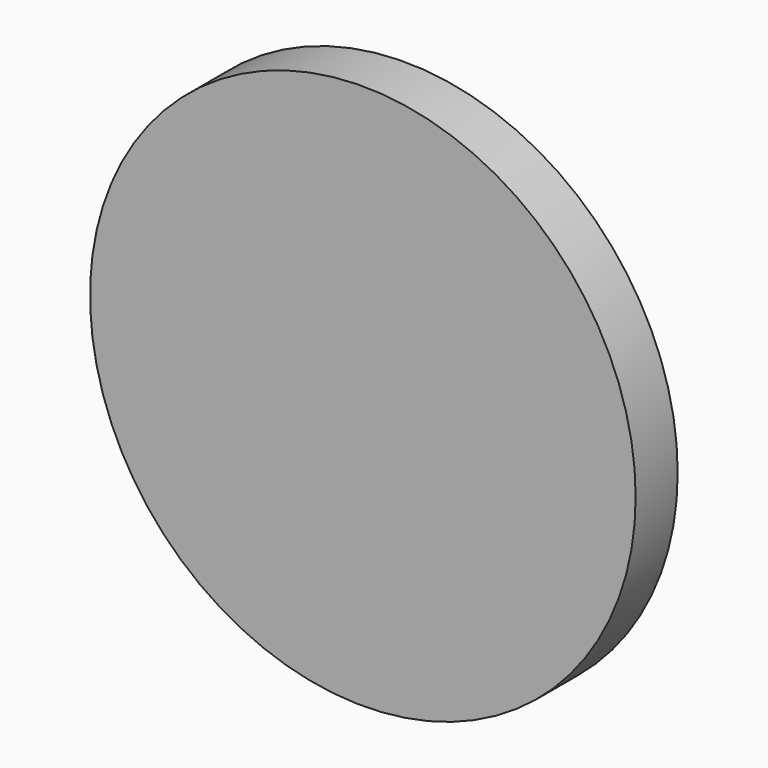
from build123d import *

# Parameters (mm, degrees)
F0_R     = 31.146875323
F1_DEPTH = 6
F2_R     = 4.1697172025
F3_DEPTH = 8
F4_T     = -2.45


with BuildPart() as f1:
    # F0 (on Front) → F1 (new body)
    with BuildSketch(Plane.XZ):
        Circle(F0_R)
    extrude(amount=F1_DEPTH)

    # F2 (on face) → F3 (join)
    with BuildSketch(Plane(origin=(0, 0, 0), x_dir=(-1, 0, 0), z_dir=(0, 1, 0))):
        Circle(F2_R)
    extrude(amount=F3_DEPTH)

    # F4
    f4_openings = [f1.faces().sort_by_distance(p)[0] for p in [
        (0, 8, 0),
    ]]
    offset(amount=F4_T, openings=f4_openings, kind=Kind.INTERSECTION)


solid = f1.part
